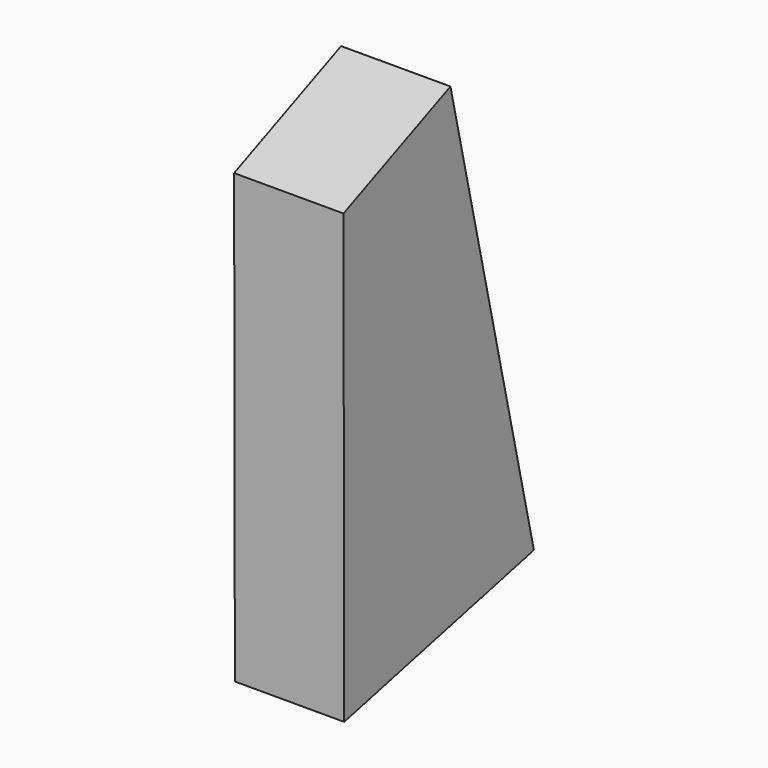
from build123d import *

# Parameters (mm, degrees)
F1_DEPTH = 25.4


with BuildPart() as f1:
    # F0 (on Right) → F1 (new body)
    with BuildSketch(Plane.YZ):
        Polygon((-69.362633, 30.098703), (-100.421682, 16.754704), (-100.2, -87.306955), (-45.130819, -74.556231), align=None)
        Polygon((-69.362633, 30.098703), (-100.421682, 16.754704), (-100.2, -87.306955), (-45.130819, -74.556231), align=None)
    extrude(amount=F1_DEPTH)


solid = f1.part
